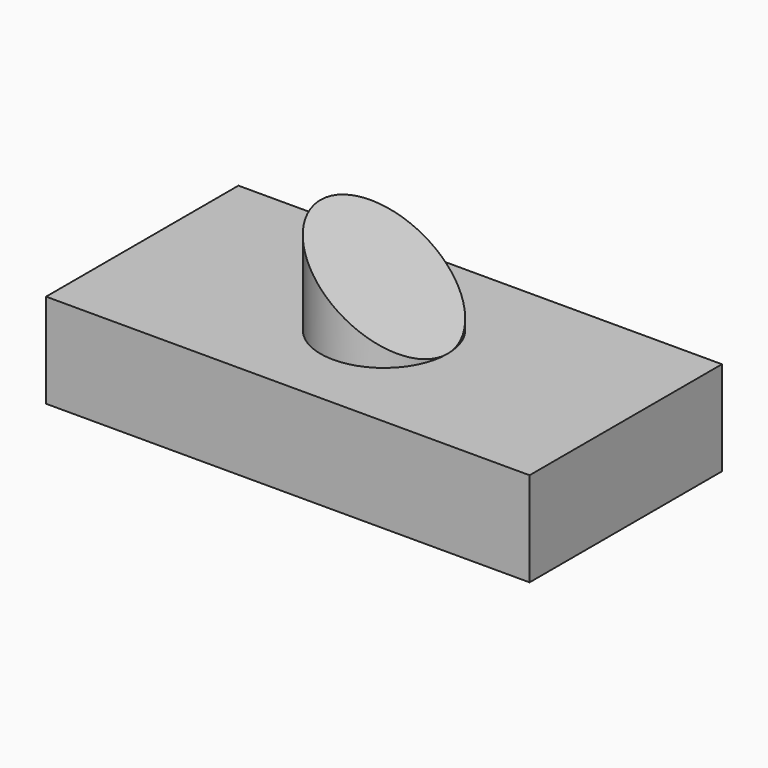
from build123d import *

# Parameters (mm, degrees)
F0_W     = 130.198062
F0_H     = 64.74135
F1_DEPTH = 25.4
F3_R     = 17.084004
F4_DEPTH = 25.4
F6_DEPTH = 56.896


with BuildPart() as f1:
    # F0 (on Top) → F1 (new body)
    with BuildSketch(Plane.XY):
        Rectangle(F0_W, F0_H)
    extrude(amount=F1_DEPTH)

    # F3 (on face) → F4 (join)
    with BuildSketch(Plane.XY.offset(25.4)):
        Circle(F3_R)
    extrude(amount=F4_DEPTH)

    # F5 (on Front) → F6 (cut, symmetric)
    with BuildSketch(Plane.XZ):
        Polygon((17.084004, 50.8), (-17.084004, 50.8), (17.084004, 25.4), align=None)
    extrude(amount=F6_DEPTH, both=True, mode=Mode.SUBTRACT)


solid = f1.part
